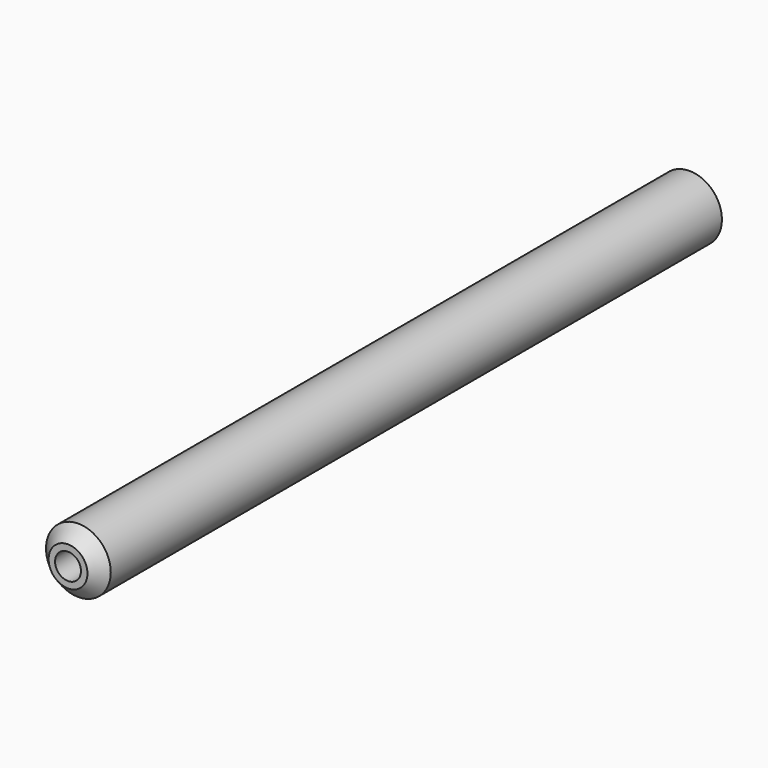
from build123d import *

# Parameters (mm, degrees)
F0_R     = 12.5
F1_DEPTH = 300
F2_R     = 5
F3_DEPTH = 25
F4_SIZE  = 5


with BuildPart() as f1:
    # F0 (on Front) → F1 (new body)
    with BuildSketch(Plane.XZ):
        Circle(F0_R)
    extrude(amount=-F1_DEPTH)

    # F2 (on face) → F3 (cut)
    with BuildSketch(Plane.XZ):
        Circle(F2_R)
    extrude(amount=-F3_DEPTH, mode=Mode.SUBTRACT)

    # F4
    f4_edges = [f1.edges().sort_by_distance(p)[0] for p in [
        (-12.5, 0, 0),
    ]]
    chamfer(f4_edges, length=F4_SIZE)


solid = f1.part
